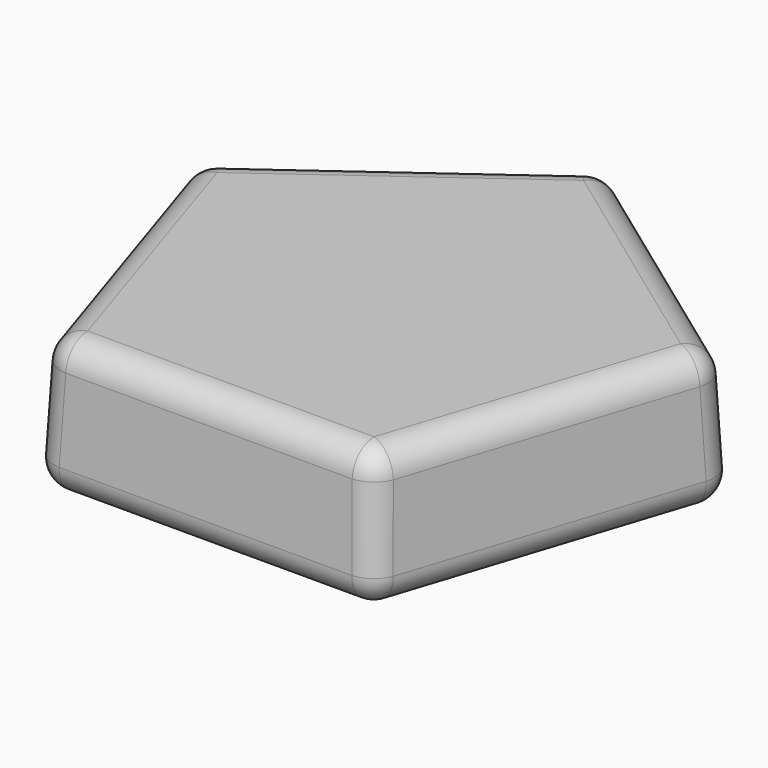
from build123d import *

# Parameters (mm, degrees)
F1_DEPTH = 25.4
F1_TAPER = 3
F2_R     = 5.08


with BuildPart() as f1:
    # F0 (on Top) → F1 (new body)
    with BuildSketch(Plane.XY):
        Polygon((0, 52.7754733818), (-50.1924578603, 16.3085181612), (-31.0206449366, -42.6962548521), (31.0206449366, -42.6962548521), (50.1924578603, 16.3085181612), align=None)
    extrude(amount=F1_DEPTH, taper=F1_TAPER)

    # F2
    f2_edges = [f1.edges().sort_by_distance(p)[0] for p in [
        (24.313794, 33.465067, 25.4),
        (-24.313794, 33.465067, 25.4),
        (-39.340545, -12.782518, 25.4),
        (0, -41.365097, 25.4),
        (39.340545, -12.782518, 25.4),
        (25.096229, 34.541996, 0),
        (-25.096229, 34.541996, 0),
        (-40.606551, -13.193868, 0),
        (0, -42.696255, 0),
        (40.606551, -13.193868, 0),
        (49.410023, 16.05429, 12.7),
        (30.537074, -42.030676, 12.7),
        (-30.537074, -42.030676, 12.7),
        (0, 51.952773, 12.7),
        (-49.410023, 16.05429, 12.700009),
    ]]
    fillet(f2_edges, radius=F2_R)


solid = f1.part
